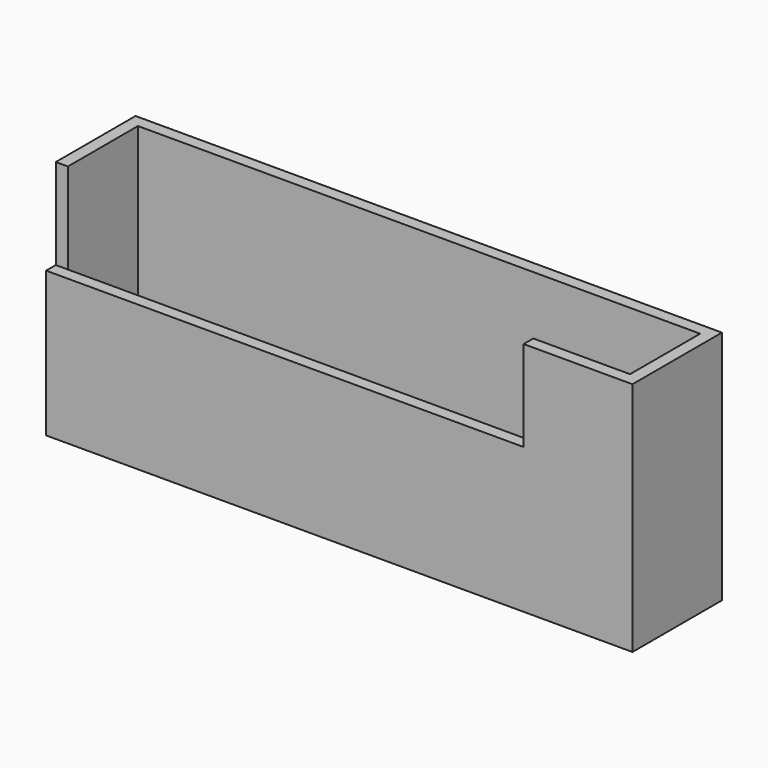
from build123d import *

# Parameters (mm, degrees)
F0_W     = 97
F0_H     = 18.5
F1_DEPTH = 2
F2_W     = 2
F2_H     = 2
F3_DEPTH = 37
F4_W     = 79
F4_H     = 15
F5_DEPTH = 2


with BuildPart() as f1:
    # F0 (on Top) → F1 (new body)
    with BuildSketch(Plane.XY):
        with Locations((48.5, 9.25)):
            Rectangle(F0_W, F0_H)
    extrude(amount=F1_DEPTH)

    # F2 (on face) → F3 (join)
    with BuildSketch(Plane.XY.offset(2)):
        with Locations((1, 1)):
            Rectangle(F2_W, F2_H)
        Polygon((2, 2), (2, 0), (97, 0), (97, 16.5), (95, 16.5), (95, 2), align=None)
        Polygon((0, 18.5), (0, 2), (2, 2), (2, 16.5), (95, 16.5), (95, 18.5), align=None)
        with Locations((96, 17.5)):
            Rectangle(F2_W, F2_H)
    extrude(amount=F3_DEPTH)

    # F4 (on face) → F5 (cut)
    with BuildSketch(Plane.XZ):
        with Locations((39.5, 31.5)):
            Rectangle(F4_W, F4_H)
    extrude(amount=-F5_DEPTH, mode=Mode.SUBTRACT)


solid = f1.part
